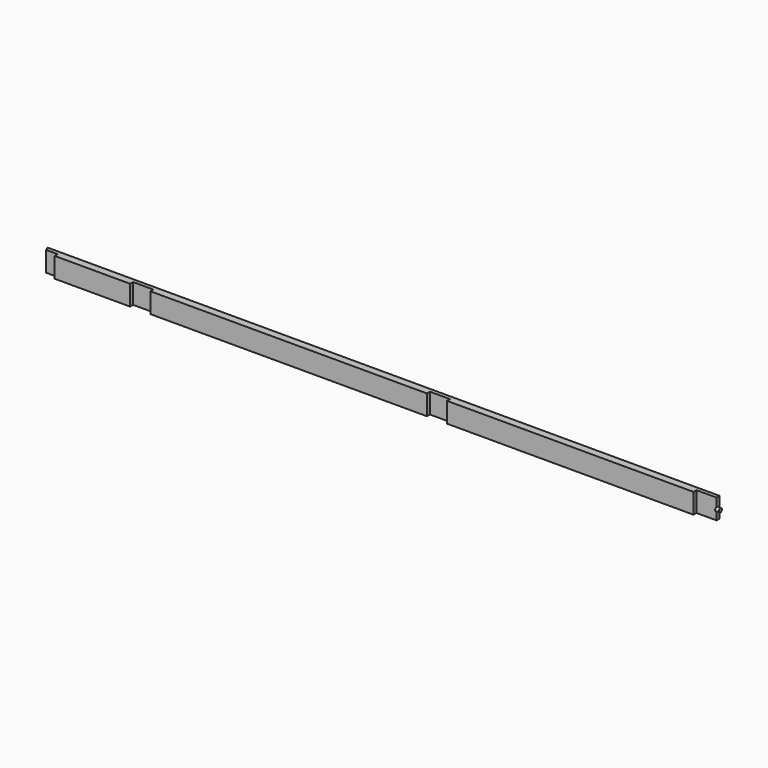
from build123d import *

# Parameters (mm, degrees)
F1_DEPTH = 25.4
F2_R     = 4.7625
F3_DEPTH = 9.525


with BuildPart() as f1:
    # F0 (on Top) → F1 (new body, symmetric)
    with BuildSketch(Plane.XY):
        Polygon((-1663.7, 0), (-1663.7, -9.525), (-1473.2, -9.525), (-1473.2, 0), (-1422.4, 0), (-1422.4, -9.525), (-723.9, -9.525), (-723.9, 0), (-673.1, 0), (-673.1, -9.525), (-50.8, -9.525), (-50.8, 0), (0, 0), (0, 9.525), (-1696.990768, 9.525), (-1693.045384, 0), align=None)
    extrude(amount=F1_DEPTH, both=True)

    # F2 (on Right) → F3 (join)
    with BuildSketch(Plane.YZ):
        Circle(F2_R)
    extrude(amount=F3_DEPTH)


solid = f1.part
